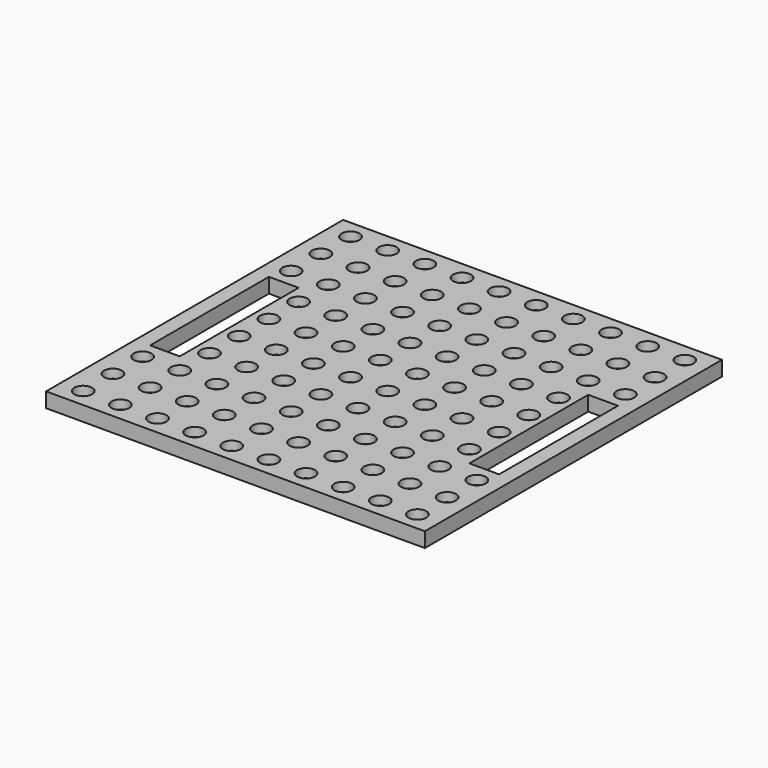
from build123d import *

# Parameters (mm, degrees)
F0_W     = 255
F0_H     = 250
F0_R     = 6
F0_W_2   = 20
F0_H_2   = 100
F1_DEPTH = 6
F2_W     = 255
F2_H     = 250
F2_W_2   = 20
F2_H_2   = 100
F3_DEPTH = 4


with BuildPart() as f1:
    # F0 (on Top) → F1 (new body)
    with BuildSketch(Plane.XY):
        with Locations((0, -204.858814)):
            Rectangle(F0_W, F0_H)
        with Locations((-112.5, -317.358814)):
            Circle(F0_R, mode=Mode.SUBTRACT)
        with Locations((-87.5, -317.358814)):
            Circle(F0_R, mode=Mode.SUBTRACT)
        with Locations((-112.5, -292.358814)):
            Circle(F0_R, mode=Mode.SUBTRACT)
        with Locations((-87.5, -292.358814)):
            Circle(F0_R, mode=Mode.SUBTRACT)
        with Locations((-62.5, -317.358814)):
            Circle(F0_R, mode=Mode.SUBTRACT)
        with Locations((-37.5, -317.358814)):
            Circle(F0_R, mode=Mode.SUBTRACT)
        with Locations((-12.5, -317.358814)):
            Circle(F0_R, mode=Mode.SUBTRACT)
        with Locations((-62.5, -292.358814)):
            Circle(F0_R, mode=Mode.SUBTRACT)
        with Locations((-37.5, -292.358814)):
            Circle(F0_R, mode=Mode.SUBTRACT)
        with Locations((-12.5, -292.358814)):
            Circle(F0_R, mode=Mode.SUBTRACT)
        with Locations((-112.5, -267.358814)):
            Circle(F0_R, mode=Mode.SUBTRACT)
        with Locations((-87.5, -267.358814)):
            Circle(F0_R, mode=Mode.SUBTRACT)
        with Locations((-87.5, -242.358814)):
            Circle(F0_R, mode=Mode.SUBTRACT)
        with Locations((-107.5, -204.858814)):
            Rectangle(F0_W_2, F0_H_2, mode=Mode.SUBTRACT)
        with Locations((-87.5, -217.358814)):
            Circle(F0_R, mode=Mode.SUBTRACT)
        with Locations((-62.5, -267.358814)):
            Circle(F0_R, mode=Mode.SUBTRACT)
        with Locations((-37.5, -267.358814)):
            Circle(F0_R, mode=Mode.SUBTRACT)
        with Locations((-62.5, -242.358814)):
            Circle(F0_R, mode=Mode.SUBTRACT)
        with Locations((-37.5, -242.358814)):
            Circle(F0_R, mode=Mode.SUBTRACT)
        with Locations((-12.5, -267.358814)):
            Circle(F0_R, mode=Mode.SUBTRACT)
        with Locations((-12.5, -242.358814)):
            Circle(F0_R, mode=Mode.SUBTRACT)
        with Locations((-62.5, -217.358814)):
            Circle(F0_R, mode=Mode.SUBTRACT)
        with Locations((-37.5, -217.358814)):
            Circle(F0_R, mode=Mode.SUBTRACT)
        with Locations((-12.5, -217.358814)):
            Circle(F0_R, mode=Mode.SUBTRACT)
        with Locations((12.5, -317.358814)):
            Circle(F0_R, mode=Mode.SUBTRACT)
        with Locations((37.5, -317.358814)):
            Circle(F0_R, mode=Mode.SUBTRACT)
        with Locations((62.5, -317.358814)):
            Circle(F0_R, mode=Mode.SUBTRACT)
        with Locations((12.5, -292.358814)):
            Circle(F0_R, mode=Mode.SUBTRACT)
        with Locations((37.5, -292.358814)):
            Circle(F0_R, mode=Mode.SUBTRACT)
        with Locations((62.5, -292.358814)):
            Circle(F0_R, mode=Mode.SUBTRACT)
        with Locations((87.5, -317.358814)):
            Circle(F0_R, mode=Mode.SUBTRACT)
        with Locations((112.5, -317.358814)):
            Circle(F0_R, mode=Mode.SUBTRACT)
        with Locations((87.5, -292.358814)):
            Circle(F0_R, mode=Mode.SUBTRACT)
        with Locations((112.5, -292.358814)):
            Circle(F0_R, mode=Mode.SUBTRACT)
        with Locations((12.5, -267.358814)):
            Circle(F0_R, mode=Mode.SUBTRACT)
        with Locations((12.5, -242.358814)):
            Circle(F0_R, mode=Mode.SUBTRACT)
        with Locations((37.5, -267.358814)):
            Circle(F0_R, mode=Mode.SUBTRACT)
        with Locations((62.5, -267.358814)):
            Circle(F0_R, mode=Mode.SUBTRACT)
        with Locations((37.5, -242.358814)):
            Circle(F0_R, mode=Mode.SUBTRACT)
        with Locations((62.5, -242.358814)):
            Circle(F0_R, mode=Mode.SUBTRACT)
        with Locations((12.5, -217.358814)):
            Circle(F0_R, mode=Mode.SUBTRACT)
        with Locations((37.5, -217.358814)):
            Circle(F0_R, mode=Mode.SUBTRACT)
        with Locations((62.5, -217.358814)):
            Circle(F0_R, mode=Mode.SUBTRACT)
        with Locations((87.5, -267.358814)):
            Circle(F0_R, mode=Mode.SUBTRACT)
        with Locations((87.5, -242.358814)):
            Circle(F0_R, mode=Mode.SUBTRACT)
        with Locations((112.5, -267.358814)):
            Circle(F0_R, mode=Mode.SUBTRACT)
        with Locations((87.5, -217.358814)):
            Circle(F0_R, mode=Mode.SUBTRACT)
        with Locations((107.5, -204.858814)):
            Rectangle(F0_W_2, F0_H_2, mode=Mode.SUBTRACT)
        with Locations((-87.5, -192.358814)):
            Circle(F0_R, mode=Mode.SUBTRACT)
        with Locations((-87.5, -167.358814)):
            Circle(F0_R, mode=Mode.SUBTRACT)
        with Locations((-62.5, -192.358814)):
            Circle(F0_R, mode=Mode.SUBTRACT)
        with Locations((-37.5, -192.358814)):
            Circle(F0_R, mode=Mode.SUBTRACT)
        with Locations((-12.5, -192.358814)):
            Circle(F0_R, mode=Mode.SUBTRACT)
        with Locations((-62.5, -167.358814)):
            Circle(F0_R, mode=Mode.SUBTRACT)
        with Locations((-37.5, -167.358814)):
            Circle(F0_R, mode=Mode.SUBTRACT)
        with Locations((-12.5, -167.358814)):
            Circle(F0_R, mode=Mode.SUBTRACT)
        with Locations((-112.5, -142.358814)):
            Circle(F0_R, mode=Mode.SUBTRACT)
        with Locations((-112.5, -117.358814)):
            Circle(F0_R, mode=Mode.SUBTRACT)
        with Locations((-87.5, -142.358814)):
            Circle(F0_R, mode=Mode.SUBTRACT)
        with Locations((-87.5, -117.358814)):
            Circle(F0_R, mode=Mode.SUBTRACT)
        with Locations((-112.5, -92.358814)):
            Circle(F0_R, mode=Mode.SUBTRACT)
        with Locations((-87.5, -92.358814)):
            Circle(F0_R, mode=Mode.SUBTRACT)
        with Locations((-62.5, -142.358814)):
            Circle(F0_R, mode=Mode.SUBTRACT)
        with Locations((-37.5, -142.358814)):
            Circle(F0_R, mode=Mode.SUBTRACT)
        with Locations((-62.5, -117.358814)):
            Circle(F0_R, mode=Mode.SUBTRACT)
        with Locations((-37.5, -117.358814)):
            Circle(F0_R, mode=Mode.SUBTRACT)
        with Locations((-12.5, -142.358814)):
            Circle(F0_R, mode=Mode.SUBTRACT)
        with Locations((-12.5, -117.358814)):
            Circle(F0_R, mode=Mode.SUBTRACT)
        with Locations((-62.5, -92.358814)):
            Circle(F0_R, mode=Mode.SUBTRACT)
        with Locations((-37.5, -92.358814)):
            Circle(F0_R, mode=Mode.SUBTRACT)
        with Locations((-12.5, -92.358814)):
            Circle(F0_R, mode=Mode.SUBTRACT)
        with Locations((12.5, -192.358814)):
            Circle(F0_R, mode=Mode.SUBTRACT)
        with Locations((37.5, -192.358814)):
            Circle(F0_R, mode=Mode.SUBTRACT)
        with Locations((62.5, -192.358814)):
            Circle(F0_R, mode=Mode.SUBTRACT)
        with Locations((12.5, -167.358814)):
            Circle(F0_R, mode=Mode.SUBTRACT)
        with Locations((37.5, -167.358814)):
            Circle(F0_R, mode=Mode.SUBTRACT)
        with Locations((62.5, -167.358814)):
            Circle(F0_R, mode=Mode.SUBTRACT)
        with Locations((87.5, -192.358814)):
            Circle(F0_R, mode=Mode.SUBTRACT)
        with Locations((87.5, -167.358814)):
            Circle(F0_R, mode=Mode.SUBTRACT)
        with Locations((12.5, -142.358814)):
            Circle(F0_R, mode=Mode.SUBTRACT)
        with Locations((12.5, -117.358814)):
            Circle(F0_R, mode=Mode.SUBTRACT)
        with Locations((37.5, -142.358814)):
            Circle(F0_R, mode=Mode.SUBTRACT)
        with Locations((62.5, -142.358814)):
            Circle(F0_R, mode=Mode.SUBTRACT)
        with Locations((37.5, -117.358814)):
            Circle(F0_R, mode=Mode.SUBTRACT)
        with Locations((62.5, -117.358814)):
            Circle(F0_R, mode=Mode.SUBTRACT)
        with Locations((12.5, -92.358814)):
            Circle(F0_R, mode=Mode.SUBTRACT)
        with Locations((37.5, -92.358814)):
            Circle(F0_R, mode=Mode.SUBTRACT)
        with Locations((62.5, -92.358814)):
            Circle(F0_R, mode=Mode.SUBTRACT)
        with Locations((87.5, -142.358814)):
            Circle(F0_R, mode=Mode.SUBTRACT)
        with Locations((87.5, -117.358814)):
            Circle(F0_R, mode=Mode.SUBTRACT)
        with Locations((112.5, -142.358814)):
            Circle(F0_R, mode=Mode.SUBTRACT)
        with Locations((112.5, -117.358814)):
            Circle(F0_R, mode=Mode.SUBTRACT)
        with Locations((87.5, -92.358814)):
            Circle(F0_R, mode=Mode.SUBTRACT)
        with Locations((112.5, -92.358814)):
            Circle(F0_R, mode=Mode.SUBTRACT)
    extrude(amount=F1_DEPTH)

    # F2 (on face) → F3 (join)
    with BuildSketch(Plane(origin=(0, 0, 0), x_dir=(1, 0, 0), z_dir=(0, 0, -1))):
        with Locations((0, 204.858814)):
            Rectangle(F2_W, F2_H)
        with Locations((-107.5, 204.858814)):
            Rectangle(F2_W_2, F2_H_2, mode=Mode.SUBTRACT)
        with Locations((107.5, 204.858814)):
            Rectangle(F2_W_2, F2_H_2, mode=Mode.SUBTRACT)
    extrude(amount=F3_DEPTH)


solid = f1.part
